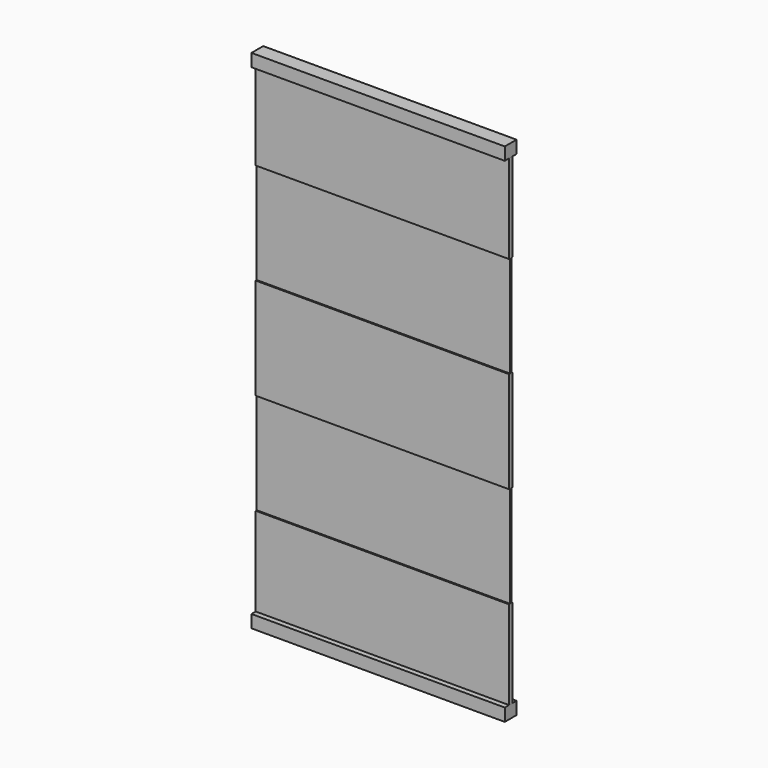
from build123d import *

# Parameters (mm, degrees)
F0_W     = 100
F0_H     = 5
F1_DEPTH = 2.9
F0_H_2   = 35
F0_H_3   = 40
F2_DEPTH = 0.8
F3_DEPTH = 0.3


with BuildPart() as f1:
    # F0 (on Front) → F1 (new body, symmetric)
    with BuildSketch(Plane.XZ):
        with Locations((0, 97.5)):
            Rectangle(F0_W, F0_H)
        with Locations((0, -97.5)):
            Rectangle(F0_W, F0_H)
    extrude(amount=F1_DEPTH, both=True)


with BuildPart() as f2:
    # F0 (on Front) → F2 (new body, symmetric)
    with BuildSketch(Plane.XZ):
        with Locations((0, 77.5)):
            Rectangle(F0_W, F0_H_2)
        Rectangle(F0_W, F0_H_3)
        with Locations((0, -77.5)):
            Rectangle(F0_W, F0_H_2)
    extrude(amount=F2_DEPTH, both=True)


with BuildPart() as f3:
    # F0 (on Front) → F3 (new body, symmetric)
    with BuildSketch(Plane.XZ):
        with Locations((0, 40)):
            Rectangle(F0_W, F0_H_3)
        with Locations((0, -40)):
            Rectangle(F0_W, F0_H_3)
    extrude(amount=F3_DEPTH, both=True)


solid = Compound([f1.part, f2.part, f3.part])
